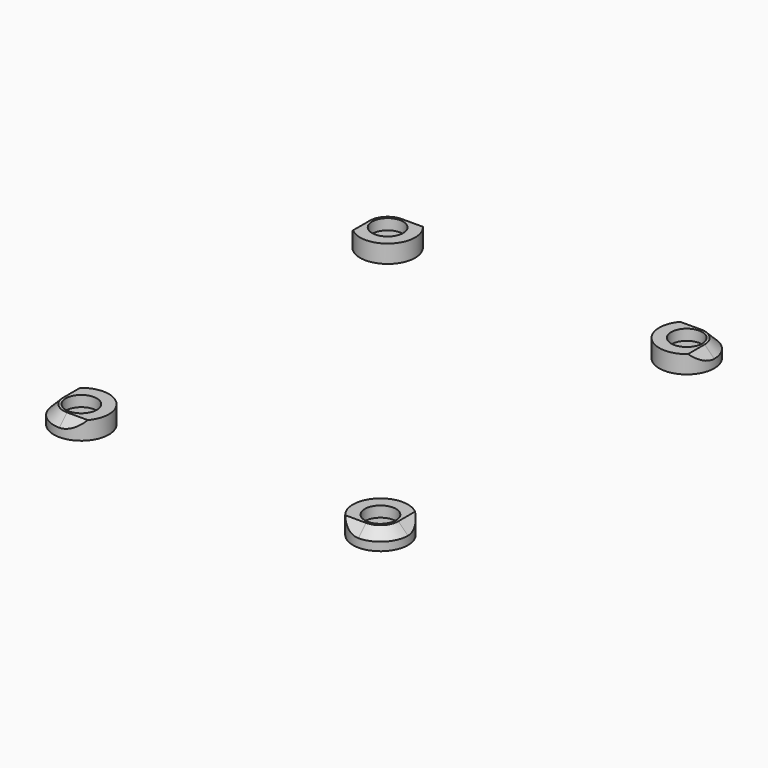
from build123d import *

# Parameters (mm, degrees)
REVOLVE_PLACEMENT_ANGLE = 180


with BuildPart() as bevel005:
    # Sweep002: sweep along a path in Sketch041
    with BuildLine(Plane(origin=(0, 0, -2), x_dir=(1, 0, 0), z_dir=(0, 0, -1))) as sweep002_path:
        Line((-25, 35), (25, 35))
        ThreePointArc((25, 35), (27.12132, 34.12132), (28, 32))
        Line((28, 32), (28, -32))
        ThreePointArc((28, -32), (27.12132, -34.12132), (25, -35))
        Line((25, -35), (-25, -35))
        ThreePointArc((-25, -35), (-27.12132, -34.12132), (-28, -32))
        Line((-28, -32), (-28, 32))
        ThreePointArc((-28, 32), (-27.12132, 34.12132), (-25, 35))
    # Sketch040 → Sweep002 (sweep)
    with BuildSketch(Plane.XZ):
        Polygon((-28, 11), (-30, 9), (-30, 1), (-28, -1), (-28, -2), (-33, -2), (-33, 12), (-28, 12), align=None)
    sweep(path=sweep002_path.line)


with BuildPart() as screw_hole_bottom:
    # Sketch033 → Revolve (revolve)
    with BuildSketch(Plane.XZ):
        Polygon((1.6, 3), (1.6, 2), (0, 2), (0, 1.8), (2.6, 1.8), (2.6, 0), (4.6, 0), (4.6, 3), align=None)
    revolve(axis=Axis((0, 0, 0), (0, 0, 1)))


with BuildPart() as screw_hole_bottom_1:
    # Revolve placement: moved
    add(screw_hole_bottom.part.moved(Location((-25, 32, 11))).rotate(Axis((-25, 32, 11), (1, 0, 0)), REVOLVE_PLACEMENT_ANGLE))


with BuildPart() as screw_hole_bottom002:
    # Body012 base: copy of screw hole bottom
    add(screw_hole_bottom_1.part)


with BuildPart() as screw_hole_bottom002_1:
    # Clone012 placement: moved
    add(screw_hole_bottom002.part.moved(Location((25, -32, 0))))


with BuildPart() as screw_hole_bottom002_2:
    # Body012 placement: moved
    add(screw_hole_bottom002_1.part.moved(Location((-25, -32, 0))))


with BuildPart() as screw_hole_bottom001:
    # Body011 base: copy of screw hole bottom
    add(screw_hole_bottom_1.part)


with BuildPart() as screw_hole_bottom001_1:
    # Clone011 placement: moved
    add(screw_hole_bottom001.part.moved(Location((25, -32, 0))))


with BuildPart() as screw_hole_bottom001_2:
    # Body011 placement: moved
    add(screw_hole_bottom001_1.part.moved(Location((25, -32, 0))))


with BuildPart() as cut030:
    # Body013 base: copy of screw hole bottom
    add(screw_hole_bottom_1.part)


with BuildPart() as cut030_1:
    # Clone013 placement: moved
    add(cut030.part.moved(Location((25, -32, 0))))


with BuildPart() as cut030_2:
    # Body013 placement: moved
    add(cut030_1.part.moved(Location((25, 32, 0))))

    # Fusion027: union screw hole bottom002, screw hole bottom, screw hole bottom001
    add(screw_hole_bottom002_2.part)
    add(screw_hole_bottom_1.part)
    add(screw_hole_bottom001_2.part)

    # Cut030: cut bevel005
    add(bevel005.part, mode=Mode.SUBTRACT)


solid = cut030_2.part
